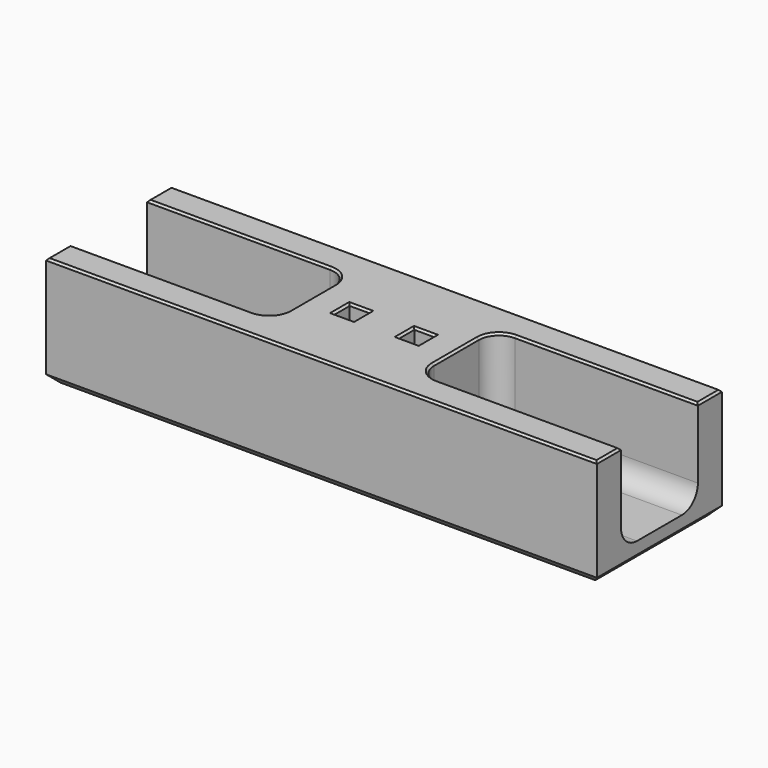
from build123d import *

# Parameters (mm, degrees)
F0_W     = 55
F0_H     = 15.6
F1_DEPTH = 11
F2_W     = 2
F2_H     = 2
F3_DEPTH = 4
F4_W     = 20.27
F4_H     = 9.6
F5_DEPTH = 9
F6_R     = 2
F7_SIZE  = 0.2
F8_SIZE  = 0.8


with BuildPart() as f1:
    # F0 (on Top) → F1 (new body)
    with BuildSketch(Plane.XY):
        Rectangle(F0_W, F0_H)
    extrude(amount=F1_DEPTH)

    # F2 (on face) → F3 (cut)
    with BuildSketch(Plane.XY.offset(11)):
        with Locations((-3.23, 0)):
            Rectangle(F2_W, F2_H)
        with Locations((3.23, 0)):
            Rectangle(F2_W, F2_H)
    extrude(amount=-F3_DEPTH, mode=Mode.SUBTRACT)

    # F4 (on face) → F5 (cut)
    with BuildSketch(Plane.XY.offset(11)):
        with Locations((-17.365, 0)):
            Rectangle(F4_W, F4_H)
        with Locations((17.365, 0)):
            Rectangle(F4_W, F4_H)
    extrude(amount=-F5_DEPTH, mode=Mode.SUBTRACT)

    # F6
    f6_edges = [f1.edges().sort_by_distance(p)[0] for p in [
        (-7.23, 4.8, 6.5),
        (-17.365, 4.8, 2),
        (-7.23, 0, 2),
        (-17.365, -4.8, 2),
        (-7.23, -4.8, 6.5),
        (7.23, 0, 2),
        (7.23, 4.8, 6.5),
        (17.365, 4.8, 2),
        (17.365, -4.8, 2),
        (7.23, -4.8, 6.5),
    ]]
    fillet(f6_edges, radius=F6_R)

    # F7
    f7_edges = [f1.edges().sort_by_distance(p)[0] for p in [
        (-18.365, -4.8, 11),
        (-7.815786, -4.214214, 11),
        (-27.5, -6.3, 11),
        (-7.23, 0, 11),
        (0, -7.8, 11),
        (-7.815786, 4.214214, 11),
        (27.5, -6.3, 11),
        (-18.365, 4.8, 11),
        (18.365, -4.8, 11),
        (-27.5, 6.3, 11),
        (7.815786, -4.214214, 11),
        (0, 7.8, 11),
        (7.23, 0, 11),
        (27.5, 6.3, 11),
        (7.815786, 4.214214, 11),
        (18.365, 4.8, 11),
        (-2.23, 0, 11),
        (-3.23, -1, 11),
        (-3.23, 1, 11),
        (-4.23, 0, 11),
        (3.23, 1, 11),
        (4.23, 0, 11),
        (2.23, 0, 11),
        (3.23, -1, 11),
    ]]
    chamfer(f7_edges, length=F7_SIZE)

    # F8
    f8_edges = [f1.edges().sort_by_distance(p)[0] for p in [
        (27.5, 0, 0),
        (0, 7.8, 0),
        (-27.5, 0, 0),
        (0, -7.8, 0),
    ]]
    chamfer(f8_edges, length=F8_SIZE)


solid = f1.part
